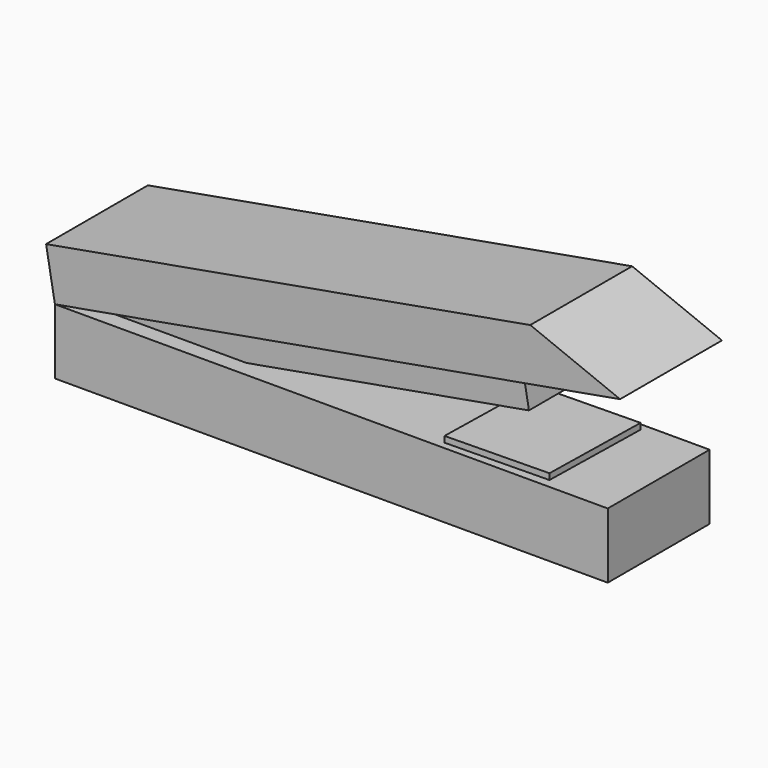
from build123d import *

# Parameters (mm, degrees)
F1_DEPTH = 12.7
F2_DEPTH = 9.525
F4_DEPTH = 10.16


with BuildPart() as f1:
    # F0 (on Front) → F1 (new body, symmetric)
    with BuildSketch(Plane.XZ):
        Polygon((-64.755325, 18.960131), (-62.99147, 8.964936), (27.957994, 25.088938), (49.762625, 28.954579), (31.846724, 36.157791), align=None)
        Polygon((47.304407, -4.07497), (47.304407, 8.964936), (-27.33244, 8.964936), (-62.99147, 8.964936), (-62.99147, -4.07497), align=None)
    extrude(amount=F1_DEPTH, both=True)

    # F3 (on Top) → F4 (join)
    with BuildSketch(Plane.XY):
        Polygon((24.137095, 0), (14.05099, 10.882558), (13.583876, -11.261532), align=None)
        Polygon((34.690313, 11.261532), (14.05099, 10.882558), (24.137095, 0), align=None)
        Polygon((24.137095, 0), (13.583876, -11.261532), (34.223199, -10.882558), align=None)
        Polygon((34.690313, 11.261532), (24.137095, 0), (34.223199, -10.882558), align=None)
    extrude(amount=F4_DEPTH)


with BuildPart() as f2:
    # F0 (on Front) → F2 (new body, symmetric)
    with BuildSketch(Plane.XZ):
        Polygon((-62.99147, 8.964936), (-27.33244, 8.964936), (29.044608, 18.959757), (27.957994, 25.088938), align=None)
    extrude(amount=F2_DEPTH, both=True)


solid = Compound([f1.part, f2.part])
